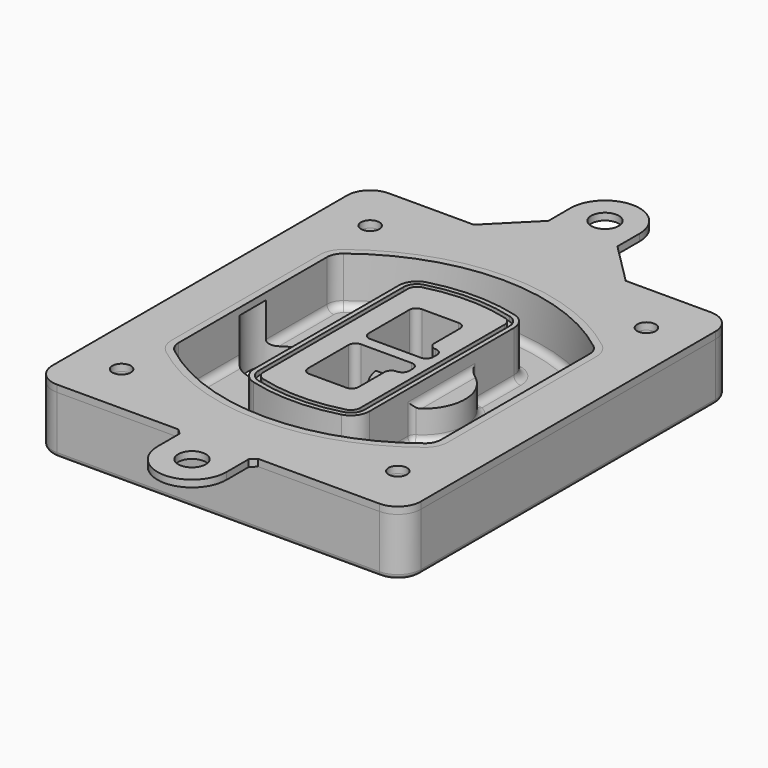
from build123d import *

# Parameters (mm, degrees)
F0_R      = 4
F1_DEPTH  = 25
F2_DEPTH  = 3
F3_DEPTH  = 18
F5_DEPTH  = 21
F6_DEPTH  = 2
F8_DEPTH  = 20
F9_DEPTH  = 16
F10_DEPTH = 25
F7_R      = 6
F7_R_2    = 4
F11_DEPTH = 6
F13_DEPTH = 9
F14_R     = 3
F15_R     = 2
F16_R     = 6
F16_R_2   = 4
F17_DEPTH = 3


with BuildPart() as f1:
    # F0 (on Top) → F1 (new body)
    with BuildSketch(Plane.XY):
        with BuildLine():
            ThreePointArc((-80, -80), (-77.0710678119, -87.0710678119), (-70, -90))
            Line((-70, -90), (70, -90))
            ThreePointArc((70, -90), (77.0710678119, -87.0710678119), (80, -80))
            Line((80, -80), (80, 80))
            ThreePointArc((80, 80), (77.0710678119, 87.0710678119), (70, 90))
            Line((70, 90), (-70, 90))
            ThreePointArc((-70, 90), (-77.0710678119, 87.0710678119), (-80, 80))
            Line((-80, 80), (-80, -80))
        make_face()
        with Locations((-60, -67.5)):
            Circle(F0_R, mode=Mode.SUBTRACT)
        with Locations((60, -67.5)):
            Circle(F0_R, mode=Mode.SUBTRACT)
        with Locations((-60, 67.5)):
            Circle(F0_R, mode=Mode.SUBTRACT)
        with BuildLine():
            ThreePointArc((-64, 40.2934422872), (-62.5820384798, 46.4328484224), (-58.6153846154, 51.3286200352))
            ThreePointArc((-58.6153846154, 51.3286200352), (0, 71.5), (58.6153846154, 51.3286200352))
            ThreePointArc((58.6153846154, 51.3286200352), (62.5820384798, 46.4328484224), (64, 40.2934422872))
            Line((64, 40.2934422872), (64, -40.2934422872))
            ThreePointArc((64, -40.2934422872), (62.5820384798, -46.4328484224), (58.6153846154, -51.3286200352))
            ThreePointArc((58.6153846154, -51.3286200352), (0, -71.5), (-58.6153846154, -51.3286200352))
            ThreePointArc((-58.6153846154, -51.3286200352), (-62.5820384798, -46.4328484224), (-64, -40.2934422872))
            Line((-64, -40.2934422872), (-64, 40.2934422872))
        make_face(mode=Mode.SUBTRACT)
        with Locations((60, 67.5)):
            Circle(F0_R, mode=Mode.SUBTRACT)
        with BuildLine():
            ThreePointArc((58.6153846154, 51.3286200352), (0, 71.5), (-58.6153846154, 51.3286200352))
            ThreePointArc((-58.6153846154, 51.3286200352), (-62.5820384798, 46.4328484224), (-64, 40.2934422872))
            Line((-64, 40.2934422872), (-64, -40.2934422872))
            ThreePointArc((-64, -40.2934422872), (-62.5820384798, -46.4328484224), (-58.6153846154, -51.3286200352))
            ThreePointArc((-58.6153846154, -51.3286200352), (0, -71.5), (58.6153846154, -51.3286200352))
            ThreePointArc((58.6153846154, -51.3286200352), (62.5820384798, -46.4328484224), (64, -40.2934422872))
            Line((64, -40.2934422872), (64, 40.2934422872))
            ThreePointArc((64, 40.2934422872), (62.5820384798, 46.4328484224), (58.6153846154, 51.3286200352))
        make_face()
        with BuildLine():
            Line((-60, -40.2934422872), (-60, 40.2934422872))
            ThreePointArc((-60, 40.2934422872), (-58.9871703427, 44.6787323838), (-56.1538461538, 48.1757121072))
            ThreePointArc((-56.1538461538, 48.1757121072), (0, 67.5), (56.1538461538, 48.1757121072))
            ThreePointArc((56.1538461538, 48.1757121072), (58.9871703427, 44.6787323838), (60, 40.2934422872))
            Line((60, 40.2934422872), (60, -40.2934422872))
            ThreePointArc((60, -40.2934422872), (58.9871703427, -44.6787323838), (56.1538461538, -48.1757121072))
            ThreePointArc((56.1538461538, -48.1757121072), (0, -67.5), (-56.1538461538, -48.1757121072))
            ThreePointArc((-56.1538461538, -48.1757121072), (-58.9871703427, -44.6787323838), (-60, -40.2934422872))
        make_face(mode=Mode.SUBTRACT)
        with BuildLine():
            ThreePointArc((-56.1538461538, 48.1757121072), (-58.9871703427, 44.6787323838), (-60, 40.2934422872))
            Line((-60, 40.2934422872), (-60, -40.2934422872))
            ThreePointArc((-60, -40.2934422872), (-58.9871703427, -44.6787323838), (-56.1538461538, -48.1757121072))
            ThreePointArc((-56.1538461538, -48.1757121072), (0, -67.5), (56.1538461538, -48.1757121072))
            ThreePointArc((56.1538461538, -48.1757121072), (58.9871703427, -44.6787323838), (60, -40.2934422872))
            Line((60, -40.2934422872), (60, 40.2934422872))
            ThreePointArc((60, 40.2934422872), (58.9871703427, 44.6787323838), (56.1538461538, 48.1757121072))
            ThreePointArc((56.1538461538, 48.1757121072), (0, 67.5), (-56.1538461538, 48.1757121072))
        make_face()
        with BuildLine():
            ThreePointArc((54.3076923077, 45.8110311612), (56.2910192399, 43.3631453548), (57, 40.2934422872))
            Line((57, 40.2934422872), (57, -40.2934422872))
            ThreePointArc((57, -40.2934422872), (56.2910192399, -43.3631453548), (54.3076923077, -45.8110311612))
            ThreePointArc((54.3076923077, -45.8110311612), (0, -64.5), (-54.3076923077, -45.8110311612))
            ThreePointArc((-54.3076923077, -45.8110311612), (-56.2910192399, -43.3631453548), (-57, -40.2934422872))
            Line((-57, -40.2934422872), (-57, 40.2934422872))
            ThreePointArc((-57, 40.2934422872), (-56.2910192399, 43.3631453548), (-54.3076923077, 45.8110311612))
            ThreePointArc((-54.3076923077, 45.8110311612), (0, 64.5), (54.3076923077, 45.8110311612))
        make_face(mode=Mode.SUBTRACT)
        with BuildLine():
            Line((57, -40.2934422872), (57, 40.2934422872))
            ThreePointArc((57, 40.2934422872), (56.2910192399, 43.3631453548), (54.3076923077, 45.8110311612))
            ThreePointArc((54.3076923077, 45.8110311612), (0, 64.5), (-54.3076923077, 45.8110311612))
            ThreePointArc((-54.3076923077, 45.8110311612), (-56.2910192399, 43.3631453548), (-57, 40.2934422872))
            Line((-57, 40.2934422872), (-57, -40.2934422872))
            ThreePointArc((-57, -40.2934422872), (-56.2910192399, -43.3631453548), (-54.3076923077, -45.8110311612))
            ThreePointArc((-54.3076923077, -45.8110311612), (0, -64.5), (54.3076923077, -45.8110311612))
            ThreePointArc((54.3076923077, -45.8110311612), (56.2910192399, -43.3631453548), (57, -40.2934422872))
        make_face()
    extrude(amount=-F1_DEPTH)

    # F0 (on Top) → F2 (join)
    with BuildSketch(Plane.XY):
        with BuildLine():
            ThreePointArc((-56.1538461538, 48.1757121072), (-58.9871703427, 44.6787323838), (-60, 40.2934422872))
            Line((-60, 40.2934422872), (-60, -40.2934422872))
            ThreePointArc((-60, -40.2934422872), (-58.9871703427, -44.6787323838), (-56.1538461538, -48.1757121072))
            ThreePointArc((-56.1538461538, -48.1757121072), (0, -67.5), (56.1538461538, -48.1757121072))
            ThreePointArc((56.1538461538, -48.1757121072), (58.9871703427, -44.6787323838), (60, -40.2934422872))
            Line((60, -40.2934422872), (60, 40.2934422872))
            ThreePointArc((60, 40.2934422872), (58.9871703427, 44.6787323838), (56.1538461538, 48.1757121072))
            ThreePointArc((56.1538461538, 48.1757121072), (0, 67.5), (-56.1538461538, 48.1757121072))
        make_face()
        with BuildLine():
            ThreePointArc((54.3076923077, 45.8110311612), (56.2910192399, 43.3631453548), (57, 40.2934422872))
            Line((57, 40.2934422872), (57, -40.2934422872))
            ThreePointArc((57, -40.2934422872), (56.2910192399, -43.3631453548), (54.3076923077, -45.8110311612))
            ThreePointArc((54.3076923077, -45.8110311612), (0, -64.5), (-54.3076923077, -45.8110311612))
            ThreePointArc((-54.3076923077, -45.8110311612), (-56.2910192399, -43.3631453548), (-57, -40.2934422872))
            Line((-57, -40.2934422872), (-57, 40.2934422872))
            ThreePointArc((-57, 40.2934422872), (-56.2910192399, 43.3631453548), (-54.3076923077, 45.8110311612))
            ThreePointArc((-54.3076923077, 45.8110311612), (0, 64.5), (54.3076923077, 45.8110311612))
        make_face(mode=Mode.SUBTRACT)
    extrude(amount=F2_DEPTH)

    # F0 (on Top) → F3 (cut)
    with BuildSketch(Plane.XY):
        with BuildLine():
            Line((57, -40.2934422872), (57, 40.2934422872))
            ThreePointArc((57, 40.2934422872), (56.2910192399, 43.3631453548), (54.3076923077, 45.8110311612))
            ThreePointArc((54.3076923077, 45.8110311612), (0, 64.5), (-54.3076923077, 45.8110311612))
            ThreePointArc((-54.3076923077, 45.8110311612), (-56.2910192399, 43.3631453548), (-57, 40.2934422872))
            Line((-57, 40.2934422872), (-57, -40.2934422872))
            ThreePointArc((-57, -40.2934422872), (-56.2910192399, -43.3631453548), (-54.3076923077, -45.8110311612))
            ThreePointArc((-54.3076923077, -45.8110311612), (0, -64.5), (54.3076923077, -45.8110311612))
            ThreePointArc((54.3076923077, -45.8110311612), (56.2910192399, -43.3631453548), (57, -40.2934422872))
        make_face()
    extrude(amount=-F3_DEPTH, mode=Mode.SUBTRACT)

    # F4 (on face) → F5 (join, through all)
    with BuildSketch(Plane.XY.offset(3)):
        with BuildLine():
            ThreePointArc((-25, -39.2465276821), (-23.3511545998, -44.1109737193), (-19.0842911877, -46.9702398883))
            ThreePointArc((-19.0842911877, -46.9702398883), (0, -49.5), (19.0842911877, -46.9702398883))
            ThreePointArc((19.0842911877, -46.9702398883), (23.3511545998, -44.1109737193), (25, -39.2465276821))
            Line((25, -39.2465276821), (25, 39.2465276821))
            ThreePointArc((25, 39.2465276821), (23.3511545998, 44.1109737193), (19.0842911877, 46.9702398883))
            ThreePointArc((19.0842911877, 46.9702398883), (0, 49.5), (-19.0842911877, 46.9702398883))
            ThreePointArc((-19.0842911877, 46.9702398883), (-23.3511545998, 44.1109737193), (-25, 39.2465276821))
            Line((-25, 39.2465276821), (-25, -39.2465276821))
        make_face()
        with BuildLine():
            ThreePointArc((18.5632183908, 45.0393118368), (21.7633659499, 42.89486221), (23, 39.2465276821))
            Line((23, 39.2465276821), (23, -39.2465276821))
            ThreePointArc((23, -39.2465276821), (21.7633659499, -42.89486221), (18.5632183908, -45.0393118368))
            ThreePointArc((18.5632183908, -45.0393118368), (0, -47.5), (-18.5632183908, -45.0393118368))
            ThreePointArc((-18.5632183908, -45.0393118368), (-21.7633659499, -42.89486221), (-23, -39.2465276821))
            Line((-23, -39.2465276821), (-23, 39.2465276821))
            ThreePointArc((-23, 39.2465276821), (-21.7633659499, 42.89486221), (-18.5632183908, 45.0393118368))
            ThreePointArc((-18.5632183908, 45.0393118368), (0, 47.5), (18.5632183908, 45.0393118368))
        make_face(mode=Mode.SUBTRACT)
        with BuildLine():
            Line((23, -39.2465276821), (23, 39.2465276821))
            ThreePointArc((23, 39.2465276821), (21.7633659499, 42.89486221), (18.5632183908, 45.0393118368))
            ThreePointArc((18.5632183908, 45.0393118368), (0, 47.5), (-18.5632183908, 45.0393118368))
            ThreePointArc((-18.5632183908, 45.0393118368), (-21.7633659499, 42.89486221), (-23, 39.2465276821))
            Line((-23, 39.2465276821), (-23, -39.2465276821))
            ThreePointArc((-23, -39.2465276821), (-21.7633659499, -42.89486221), (-18.5632183908, -45.0393118368))
            ThreePointArc((-18.5632183908, -45.0393118368), (0, -47.5), (18.5632183908, -45.0393118368))
            ThreePointArc((18.5632183908, -45.0393118368), (21.7633659499, -42.89486221), (23, -39.2465276821))
        make_face()
        with BuildLine():
            ThreePointArc((18.0421455939, 43.1083837852), (20.1755772999, 41.6787507007), (21, 39.2465276821))
            Line((21, 39.2465276821), (21, -39.2465276821))
            ThreePointArc((21, -39.2465276821), (20.1755772999, -41.6787507007), (18.0421455939, -43.1083837852))
            ThreePointArc((18.0421455939, -43.1083837852), (0, -45.5), (-18.0421455939, -43.1083837852))
            ThreePointArc((-18.0421455939, -43.1083837852), (-20.1755772999, -41.6787507007), (-21, -39.2465276821))
            Line((-21, -39.2465276821), (-21, 39.2465276821))
            ThreePointArc((-21, 39.2465276821), (-20.1755772999, 41.6787507007), (-18.0421455939, 43.1083837852))
            ThreePointArc((-18.0421455939, 43.1083837852), (0, 45.5), (18.0421455939, 43.1083837852))
        make_face(mode=Mode.SUBTRACT)
        with BuildLine():
            Line((21, -39.2465276821), (21, 39.2465276821))
            ThreePointArc((21, 39.2465276821), (20.1755772999, 41.6787507007), (18.0421455939, 43.1083837852))
            ThreePointArc((18.0421455939, 43.1083837852), (0, 45.5), (-18.0421455939, 43.1083837852))
            ThreePointArc((-18.0421455939, 43.1083837852), (-20.1755772999, 41.6787507007), (-21, 39.2465276821))
            Line((-21, 39.2465276821), (-21, -39.2465276821))
            ThreePointArc((-21, -39.2465276821), (-20.1755772999, -41.6787507007), (-18.0421455939, -43.1083837852))
            ThreePointArc((-18.0421455939, -43.1083837852), (0, -45.5), (18.0421455939, -43.1083837852))
            ThreePointArc((18.0421455939, -43.1083837852), (20.1755772999, -41.6787507007), (21, -39.2465276821))
        make_face()
        with BuildLine():
            Line((-8, -2.5), (14, -2.5))
            ThreePointArc((14, -2.5), (16.1213203436, -3.3786796564), (17, -5.5))
            Line((17, -5.5), (17, -7.5))
            ThreePointArc((17, -7.5), (16.1213203436, -9.6213203436), (14, -10.5))
            ThreePointArc((14, -10.5), (11.8786796564, -11.3786796564), (11, -13.5))
            Line((11, -13.5), (11, -27.5))
            ThreePointArc((11, -27.5), (10.1213203436, -29.6213203436), (8, -30.5))
            Line((8, -30.5), (-8, -30.5))
            ThreePointArc((-8, -30.5), (-10.1213203436, -29.6213203436), (-11, -27.5))
            Line((-11, -27.5), (-11, -5.5))
            ThreePointArc((-11, -5.5), (-10.1213203436, -3.3786796564), (-8, -2.5))
        make_face(mode=Mode.SUBTRACT)
        with BuildLine():
            ThreePointArc((-8, 2.5), (-10.1213203436, 3.3786796564), (-11, 5.5))
            Line((-11, 5.5), (-11, 27.5))
            ThreePointArc((-11, 27.5), (-10.1213203436, 29.6213203436), (-8, 30.5))
            Line((-8, 30.5), (8, 30.5))
            ThreePointArc((8, 30.5), (10.1213203436, 29.6213203436), (11, 27.5))
            Line((11, 27.5), (11, 13.5))
            ThreePointArc((11, 13.5), (11.8786796564, 11.3786796564), (14, 10.5))
            ThreePointArc((14, 10.5), (16.1213203436, 9.6213203436), (17, 7.5))
            Line((17, 7.5), (17, 5.5))
            ThreePointArc((17, 5.5), (16.1213203436, 3.3786796564), (14, 2.5))
            Line((14, 2.5), (-8, 2.5))
        make_face(mode=Mode.SUBTRACT)
    extrude(amount=-F5_DEPTH)

    # F4 (on face) → F6 (cut)
    with BuildSketch(Plane.XY.offset(3)):
        with BuildLine():
            Line((23, -39.2465276821), (23, 39.2465276821))
            ThreePointArc((23, 39.2465276821), (21.7633659499, 42.89486221), (18.5632183908, 45.0393118368))
            ThreePointArc((18.5632183908, 45.0393118368), (0, 47.5), (-18.5632183908, 45.0393118368))
            ThreePointArc((-18.5632183908, 45.0393118368), (-21.7633659499, 42.89486221), (-23, 39.2465276821))
            Line((-23, 39.2465276821), (-23, -39.2465276821))
            ThreePointArc((-23, -39.2465276821), (-21.7633659499, -42.89486221), (-18.5632183908, -45.0393118368))
            ThreePointArc((-18.5632183908, -45.0393118368), (0, -47.5), (18.5632183908, -45.0393118368))
            ThreePointArc((18.5632183908, -45.0393118368), (21.7633659499, -42.89486221), (23, -39.2465276821))
        make_face()
        with BuildLine():
            ThreePointArc((18.0421455939, 43.1083837852), (20.1755772999, 41.6787507007), (21, 39.2465276821))
            Line((21, 39.2465276821), (21, -39.2465276821))
            ThreePointArc((21, -39.2465276821), (20.1755772999, -41.6787507007), (18.0421455939, -43.1083837852))
            ThreePointArc((18.0421455939, -43.1083837852), (0, -45.5), (-18.0421455939, -43.1083837852))
            ThreePointArc((-18.0421455939, -43.1083837852), (-20.1755772999, -41.6787507007), (-21, -39.2465276821))
            Line((-21, -39.2465276821), (-21, 39.2465276821))
            ThreePointArc((-21, 39.2465276821), (-20.1755772999, 41.6787507007), (-18.0421455939, 43.1083837852))
            ThreePointArc((-18.0421455939, 43.1083837852), (0, 45.5), (18.0421455939, 43.1083837852))
        make_face(mode=Mode.SUBTRACT)
    extrude(amount=-F6_DEPTH, mode=Mode.SUBTRACT)

    # F7 (on face) → F8 (join)
    with BuildSketch(Plane(origin=(0, 0, -25), x_dir=(1, 0, 0), z_dir=(0, 0, -1))):
        with BuildLine():
            ThreePointArc((3.28842436, 0), (16.7567035675, 13.4682792075), (30.224982775, 0))
            Line((30.224982775, 0), (35.224982775, 0))
            ThreePointArc((35.224982775, 0), (16.7567035675, 18.4682792075), (-1.71157564, 0))
            Line((-1.71157564, 0), (3.28842436, 0))
        make_face()
        with BuildLine():
            Line((3.28842436, 0), (30.224982775, 0))
            ThreePointArc((30.224982775, 0), (16.7567035675, 13.4682792075), (3.28842436, 0))
        make_face()
        with BuildLine():
            ThreePointArc((3.28842436, 0), (16.7567035675, -13.4682792075), (30.224982775, 0))
            Line((30.224982775, 0), (3.28842436, 0))
        make_face()
        with BuildLine():
            Line((35.224982775, 0), (30.224982775, 0))
            ThreePointArc((30.224982775, 0), (16.7567035675, -13.4682792075), (3.28842436, 0))
            Line((3.28842436, 0), (-1.71157564, 0))
            ThreePointArc((-1.71157564, 0), (16.7567035675, -18.4682792075), (35.224982775, 0))
        make_face()
    extrude(amount=-F8_DEPTH)

    # F7 (on face) → F9 (cut)
    with BuildSketch(Plane(origin=(0, 0, -25), x_dir=(1, 0, 0), z_dir=(0, 0, -1))):
        with BuildLine():
            Line((3.28842436, 0), (30.224982775, 0))
            ThreePointArc((30.224982775, 0), (16.7567035675, 13.4682792075), (3.28842436, 0))
        make_face()
        with BuildLine():
            ThreePointArc((3.28842436, 0), (16.7567035675, -13.4682792075), (30.224982775, 0))
            Line((30.224982775, 0), (3.28842436, 0))
        make_face()
    extrude(amount=-F9_DEPTH, mode=Mode.SUBTRACT)

    # F7 (on face) → F10 (cut)
    with BuildSketch(Plane(origin=(0, 0, -25), x_dir=(1, 0, 0), z_dir=(0, 0, -1))):
        with BuildLine():
            Line((-59.0318229325, 0), (-32.0952645175, 0))
            ThreePointArc((-32.0952645175, 0), (-45.563543725, 13.4682792075), (-59.0318229325, 0))
        make_face()
        with BuildLine():
            ThreePointArc((-59.0318229325, 0), (-45.563543725, -13.4682792075), (-32.0952645175, 0))
            Line((-32.0952645175, 0), (-59.0318229325, 0))
        make_face()
    extrude(amount=-F10_DEPTH, mode=Mode.SUBTRACT)

    # F7 (on face) → F11 (cut)
    with BuildSketch(Plane(origin=(0, 0, -25), x_dir=(1, 0, 0), z_dir=(0, 0, -1))):
        with Locations((60, -67.5)):
            Circle(F7_R)
        with Locations((60, -67.5)):
            Circle(F7_R_2, mode=Mode.SUBTRACT)
        with Locations((60, -67.5)):
            Circle(F7_R)
        with Locations((60, -67.5)):
            Circle(F7_R_2, mode=Mode.SUBTRACT)
        with Locations((-60, -67.5)):
            Circle(F7_R)
        with Locations((-60, -67.5)):
            Circle(F7_R_2, mode=Mode.SUBTRACT)
        with Locations((-60, -67.5)):
            Circle(F7_R)
        with Locations((-60, -67.5)):
            Circle(F7_R_2, mode=Mode.SUBTRACT)
        with Locations((-60, 67.5)):
            Circle(F7_R)
        with Locations((-60, 67.5)):
            Circle(F7_R_2, mode=Mode.SUBTRACT)
        with Locations((-60, 67.5)):
            Circle(F7_R)
        with Locations((-60, 67.5)):
            Circle(F7_R_2, mode=Mode.SUBTRACT)
        with Locations((60, 67.5)):
            Circle(F7_R)
        with Locations((60, 67.5)):
            Circle(F7_R_2, mode=Mode.SUBTRACT)
        with Locations((60, 67.5)):
            Circle(F7_R)
        with Locations((60, 67.5)):
            Circle(F7_R_2, mode=Mode.SUBTRACT)
    extrude(amount=-F11_DEPTH, mode=Mode.SUBTRACT)

    # F12 (on face) → F13 (cut, through all)
    with BuildSketch(Plane(origin=(0, 0, -9), x_dir=(1, 0, 0), z_dir=(0, 0, -1))):
        with BuildLine():
            Line((11, 13.5), (11, 17.5481537753))
            ThreePointArc((11, 17.5481537753), (2.5696536419, 11.8239143813), (-1.5415842455, 2.5))
            Line((-1.5415842455, 2.5), (3.5224848595, 2.5))
            ThreePointArc((3.5224848595, 2.5), (6.1857188154, 8.3455872281), (11.2536447004, 12.2927168648))
            ThreePointArc((11.2536447004, 12.2927168648), (11.0640958889, 12.8831798879), (11, 13.5))
        make_face()
        with BuildLine():
            ThreePointArc((11.2536447004, -12.2927168648), (6.1857188154, -8.3455872281), (3.5224848595, -2.5))
            Line((3.5224848595, -2.5), (-1.5415842455, -2.5))
            ThreePointArc((-1.5415842455, -2.5), (2.5696536419, -11.8239143813), (11, -17.5481537753))
            Line((11, -17.5481537753), (11, -13.5))
            ThreePointArc((11, -13.5), (11.0640958889, -12.8831798879), (11.2536447004, -12.2927168648))
        make_face()
        with BuildLine():
            ThreePointArc((11.2536447004, 12.2927168648), (6.1857188154, 8.3455872281), (3.5224848595, 2.5))
            Line((3.5224848595, 2.5), (14, 2.5))
            ThreePointArc((14, 2.5), (16.1213203436, 3.3786796564), (17, 5.5))
            Line((17, 5.5), (17, 7.5))
            ThreePointArc((17, 7.5), (16.1213203436, 9.6213203436), (14, 10.5))
            ThreePointArc((14, 10.5), (12.3601599782, 10.9878446101), (11.2536447004, 12.2927168648))
        make_face()
        with BuildLine():
            Line((14, -2.5), (3.5224848595, -2.5))
            ThreePointArc((3.5224848595, -2.5), (6.1857188154, -8.3455872281), (11.2536447004, -12.2927168648))
            ThreePointArc((11.2536447004, -12.2927168648), (12.3601599782, -10.9878446101), (14, -10.5))
            ThreePointArc((14, -10.5), (16.1213203436, -9.6213203436), (17, -7.5))
            Line((17, -7.5), (17, -5.5))
            ThreePointArc((17, -5.5), (16.1213203436, -3.3786796564), (14, -2.5))
        make_face()
    extrude(amount=F13_DEPTH, mode=Mode.SUBTRACT)

    # F14
    f14_edges = [f1.edges().sort_by_distance(p)[0] for p in [
        (-57, -23.703476, -18),
        (-57, 23.703476, -18),
        (25, 0, -5),
        (25, 16.526506, -11.5),
        (25, -16.526506, -11.5),
        (25, -27.886517, -18),
        (35.224983, 0, -18),
    ]]
    fillet(f14_edges, radius=F14_R)

    # F15
    f15_edges = [f1.edges().sort_by_distance(p)[0] for p in [
        (0, -90, -25),
    ]]
    fillet(f15_edges, radius=F15_R)


with BuildPart() as f17:
    # F16 (on face) → F17 (new body, through all)
    with BuildSketch(Plane.XY):
        with BuildLine():
            ThreePointArc((15, 120), (0, 135), (-15, 120))
            Line((-15, 120), (-15, 108))
            Line((-15, 108), (-33, 90))
            Line((-33, 90), (33, 90))
            Line((33, 90), (15, 108))
            Line((15, 108), (15, 120))
        make_face()
        with Locations((0, 120)):
            Circle(F16_R, mode=Mode.SUBTRACT)
        with BuildLine():
            Line((17.25, -90), (-17.25, -90))
            Line((-17.25, -90), (-15, -92.25))
            Line((-15, -92.25), (-15, -104.25))
            ThreePointArc((-15, -104.25), (0, -119.25), (15, -104.25))
            Line((15, -104.25), (15, -92.25))
            Line((15, -92.25), (17.25, -90))
        make_face()
        with Locations((0, -104.25)):
            Circle(F16_R, mode=Mode.SUBTRACT)
        with BuildLine():
            Line((33, 90), (-33, 90))
            Line((-33, 90), (-70, 90))
            ThreePointArc((-70, 90), (-77.0710678119, 87.0710678119), (-80, 80))
            Line((-80, 80), (-80, -80))
            ThreePointArc((-80, -80), (-77.0710678119, -87.0710678119), (-70, -90))
            Line((-70, -90), (-17.25, -90))
            Line((-17.25, -90), (17.25, -90))
            Line((17.25, -90), (70, -90))
            ThreePointArc((70, -90), (77.0710678119, -87.0710678119), (80, -80))
            Line((80, -80), (80, 80))
            ThreePointArc((80, 80), (77.0710678119, 87.0710678119), (70, 90))
            Line((70, 90), (33, 90))
        make_face()
        with Locations((-60, -67.5)):
            Circle(F16_R_2, mode=Mode.SUBTRACT)
        with Locations((60, -67.5)):
            Circle(F16_R_2, mode=Mode.SUBTRACT)
        with BuildLine():
            ThreePointArc((-60, 40.2934422872), (-58.9871703427, 44.6787323838), (-56.1538461538, 48.1757121072))
            ThreePointArc((-56.1538461538, 48.1757121072), (0, 67.5), (56.1538461538, 48.1757121072))
            ThreePointArc((56.1538461538, 48.1757121072), (58.9871703427, 44.6787323838), (60, 40.2934422872))
            Line((60, 40.2934422872), (60, -40.2934422872))
            ThreePointArc((60, -40.2934422872), (58.9871703427, -44.6787323838), (56.1538461538, -48.1757121072))
            ThreePointArc((56.1538461538, -48.1757121072), (0, -67.5), (-56.1538461538, -48.1757121072))
            ThreePointArc((-56.1538461538, -48.1757121072), (-58.9871703427, -44.6787323838), (-60, -40.2934422872))
            Line((-60, -40.2934422872), (-60, 40.2934422872))
        make_face(mode=Mode.SUBTRACT)
        with Locations((-60, 67.5)):
            Circle(F16_R_2, mode=Mode.SUBTRACT)
        with Locations((60, 67.5)):
            Circle(F16_R_2, mode=Mode.SUBTRACT)
        with BuildLine():
            Line((33, 90), (-33, 90))
            Line((-33, 90), (-70, 90))
            ThreePointArc((-70, 90), (-77.0710678119, 87.0710678119), (-80, 80))
            Line((-80, 80), (-80, -80))
            ThreePointArc((-80, -80), (-77.0710678119, -87.0710678119), (-70, -90))
            Line((-70, -90), (-17.25, -90))
            Line((-17.25, -90), (17.25, -90))
            Line((17.25, -90), (70, -90))
            ThreePointArc((70, -90), (77.0710678119, -87.0710678119), (80, -80))
            Line((80, -80), (80, 80))
            ThreePointArc((80, 80), (77.0710678119, 87.0710678119), (70, 90))
            Line((70, 90), (33, 90))
        make_face()
        with Locations((-60, -67.5)):
            Circle(F16_R_2, mode=Mode.SUBTRACT)
        with Locations((60, -67.5)):
            Circle(F16_R_2, mode=Mode.SUBTRACT)
        with BuildLine():
            ThreePointArc((-60, 40.2934422872), (-58.9871703427, 44.6787323838), (-56.1538461538, 48.1757121072))
            ThreePointArc((-56.1538461538, 48.1757121072), (0, 67.5), (56.1538461538, 48.1757121072))
            ThreePointArc((56.1538461538, 48.1757121072), (58.9871703427, 44.6787323838), (60, 40.2934422872))
            Line((60, 40.2934422872), (60, -40.2934422872))
            ThreePointArc((60, -40.2934422872), (58.9871703427, -44.6787323838), (56.1538461538, -48.1757121072))
            ThreePointArc((56.1538461538, -48.1757121072), (0, -67.5), (-56.1538461538, -48.1757121072))
            ThreePointArc((-56.1538461538, -48.1757121072), (-58.9871703427, -44.6787323838), (-60, -40.2934422872))
            Line((-60, -40.2934422872), (-60, 40.2934422872))
        make_face(mode=Mode.SUBTRACT)
        with Locations((-60, 67.5)):
            Circle(F16_R_2, mode=Mode.SUBTRACT)
        with Locations((60, 67.5)):
            Circle(F16_R_2, mode=Mode.SUBTRACT)
    extrude(amount=F17_DEPTH)


solid = Compound([f1.part, f17.part])
